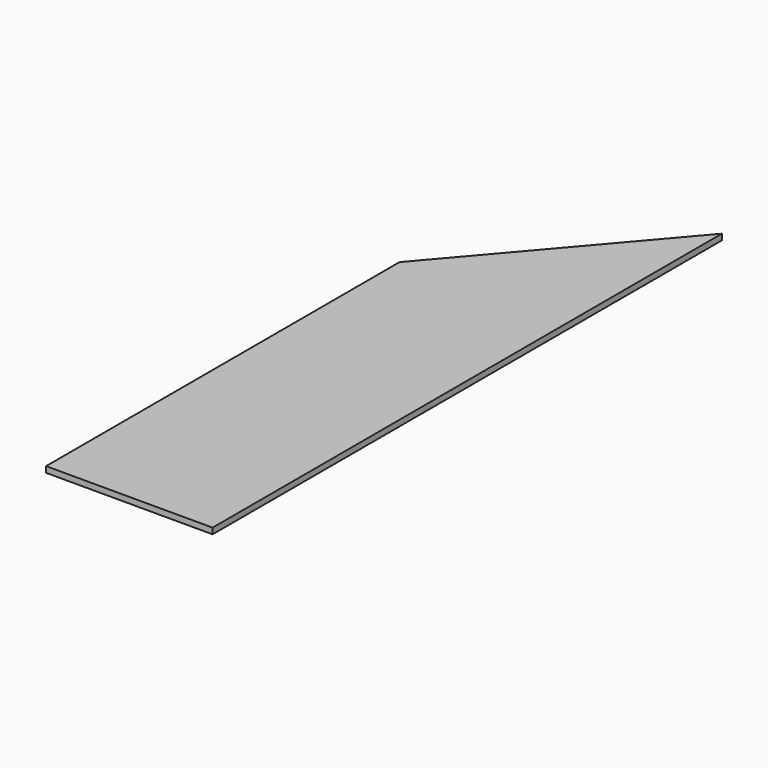
from build123d import *

# Parameters (mm, degrees)
PAD_DEPTH = 19


with BuildPart() as part:
    # Sketch → Pad (new body)
    with BuildSketch(Plane.XY):
        Polygon((0, 0), (0, 2045.548707), (-535, 1419.543552), (-535, 0), align=None)
    extrude(amount=PAD_DEPTH)


solid = part.part
